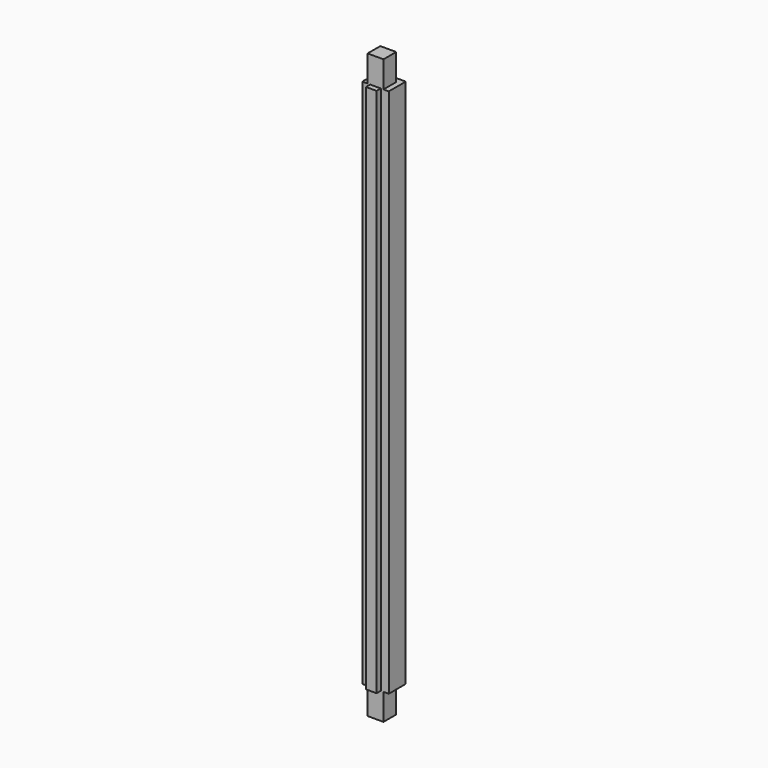
from build123d import *

# Parameters (mm, degrees)
F0_W     = 100
F0_H     = 2200
F1_DEPTH = 100
F2_W     = 30
F2_H     = 2200
F3_DEPTH = 20
F4_W     = 40
F4_H     = 20
F5_DEPTH = 100
F6_W     = 40
F6_H     = 20
F7_DEPTH = 100


with BuildPart() as f1:
    # F0 (on Front) → F1 (new body)
    with BuildSketch(Plane.XZ):
        with Locations((50, 1100)):
            Rectangle(F0_W, F0_H)
    extrude(amount=F1_DEPTH)

    # F2 (on face) → F3 (cut)
    with BuildSketch(Plane.XZ.offset(100)):
        with Locations((15, 1100)):
            Rectangle(F2_W, F2_H)
        with Locations((85, 1100)):
            Rectangle(F2_W, F2_H)
    extrude(amount=-F3_DEPTH, mode=Mode.SUBTRACT)

    # F4 (on face) → F5 (cut)
    with BuildSketch(Plane.XY.offset(2200)):
        Polygon((20, -80), (20, -20), (80, -20), (80, -80), (100, -80), (100, 0), (0, 0), (0, -80), align=None)
        with Locations((50, -90)):
            Rectangle(F4_W, F4_H)
    extrude(amount=-F5_DEPTH, mode=Mode.SUBTRACT)

    # F6 (on face) → F7 (cut)
    with BuildSketch(Plane(origin=(0, 0, 0), x_dir=(1, 0, 0), z_dir=(0, 0, -1))):
        Polygon((80, 80), (80, 20), (20, 20), (20, 80), (0, 80), (0, 0), (100, 0), (100, 80), align=None)
        with Locations((50, 90)):
            Rectangle(F6_W, F6_H)
    extrude(amount=-F7_DEPTH, mode=Mode.SUBTRACT)


solid = f1.part
